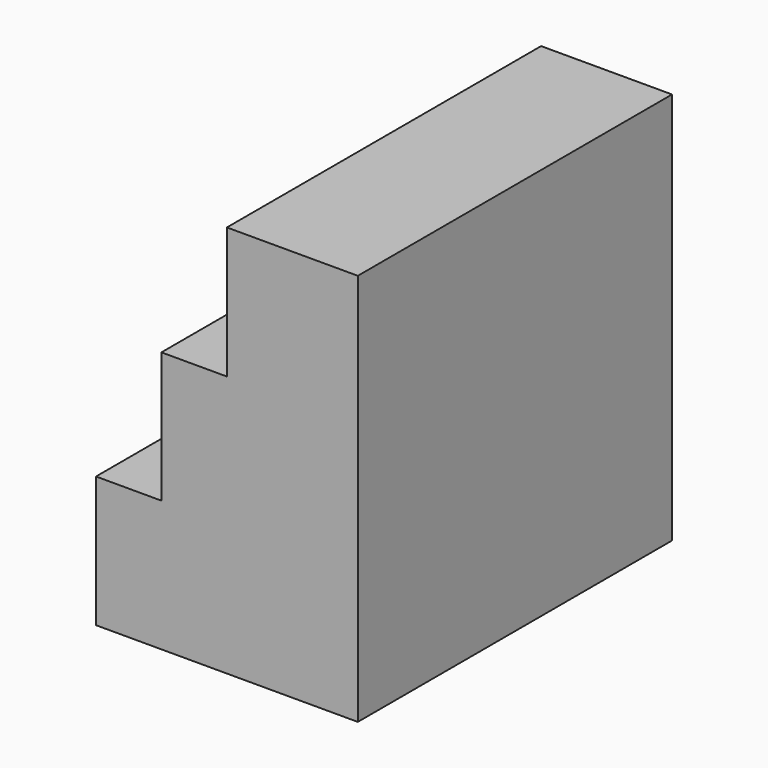
from build123d import *

# Parameters (mm, degrees)
F0_W     = 25.4
F0_H     = 76.2
F1_DEPTH = 76.2
F2_W     = 76.2
F2_H     = 25.4
F3_DEPTH = 25.4
F4_W     = 75.8212543819
F4_H     = 25.3335822701
F5_DEPTH = 12.7


with BuildPart() as f1:
    # F0 (on Top) → F1 (new body)
    with BuildSketch(Plane.XY):
        with Locations((39.4203104079, 12.0593613458)):
            Rectangle(F0_W, F0_H)
    extrude(amount=F1_DEPTH)

    # F2 (on face) → F3 (join)
    with BuildSketch(Plane(origin=(26.7203104079, 0, 0), x_dir=(0, -1, 0), z_dir=(-1, 0, 0))):
        with Locations((-12.0593613458, 12.7)):
            Rectangle(F2_W, F2_H)
    extrude(amount=F3_DEPTH)

    # F4 (on face) → F5 (join)
    with BuildSketch(Plane(origin=(26.7203104079, 0, 0), x_dir=(0, -1, 0), z_dir=(-1, 0, 0))):
        with Locations((-11.8699885368, 38.0667911351)):
            Rectangle(F4_W, F4_H)
    extrude(amount=F5_DEPTH)


solid = f1.part
